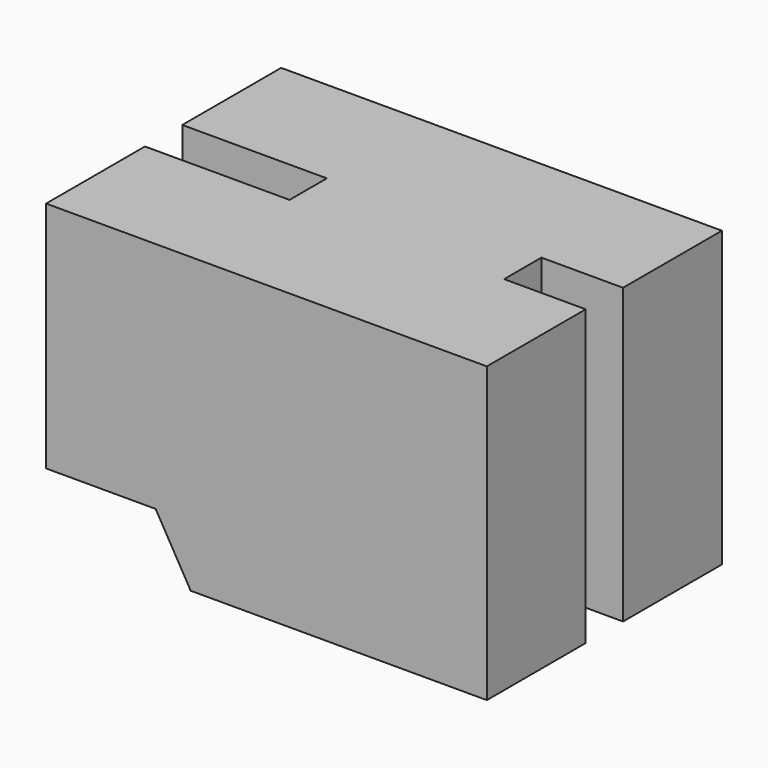
from build123d import *

# Parameters (mm, degrees)
F1_DEPTH = 12.6
F2_W     = 6.2
F2_H     = 2
F3_DEPTH = 12.601
F2_W_2   = 3.5
F4_DEPTH = 12.601
F6_DEPTH = 12.701


with BuildPart() as f1:
    # F0 (on Front) → F1 (new body)
    with BuildSketch(Plane.XZ):
        Polygon((18.9, 0), (0, 0), (0, -10), (4.7, -10), (6.2, -12.6), (18.9, -12.6), align=None)
    extrude(amount=F1_DEPTH)

    # F2 (on face) → F3 (cut, through all)
    with BuildSketch(Plane(origin=(0, 0, -12.6), x_dir=(1, 0, 0), z_dir=(0, 0, -1))):
        with Locations((3.1, 6.3)):
            Rectangle(F2_W, F2_H)
    extrude(amount=-F3_DEPTH, mode=Mode.SUBTRACT)

    # F2 (on face) → F4 (cut, through all)
    with BuildSketch(Plane(origin=(0, 0, -12.6), x_dir=(1, 0, 0), z_dir=(0, 0, -1))):
        with Locations((17.15, 6.3)):
            Rectangle(F2_W_2, F2_H)
    extrude(amount=-F4_DEPTH, mode=Mode.SUBTRACT)

    # F5 (on face) → F6 (cut, through all)
    with BuildSketch(Plane(origin=(6.2, 0, 0), x_dir=(0, -1, 0), z_dir=(-1, 0, 0))):
        with BuildLine():
            ThreePointArc((5.3, -6.3), (6.3, -7.3), (7.3, -6.3))
            ThreePointArc((7.3, -6.3), (6.3, -5.3), (5.3, -6.3))
        make_face()
    extrude(amount=-F6_DEPTH, mode=Mode.SUBTRACT)


solid = f1.part
